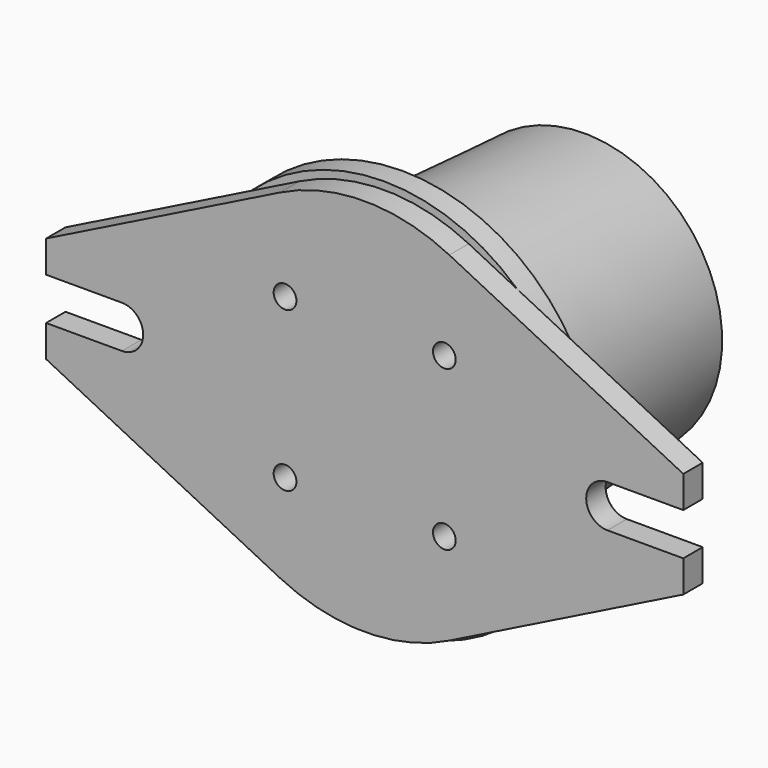
from build123d import *

# Parameters (mm, degrees)
F0_R     = 7.5
F1_DEPTH = 16
F2_R     = 130
F3_DEPTH = 15
F4_R     = 100
F5_DEPTH = 150
F5_TAPER = 3.5


with BuildPart() as f1:
    # F0 (on Front) → F1 (new body)
    with BuildSketch(Plane.XZ):
        with BuildLine():
            Line((-210, -35), (-55.7589884753, -111.8746405769))
            ThreePointArc((-55.7589884753, -111.8746405769), (0, -125), (55.7589884753, -111.8746405769))
            Line((55.7589884753, -111.8746405769), (210, -35))
            Line((210, -35), (210, -14))
            Line((210, -14), (160, -14))
            ThreePointArc((160, -14), (146, 0), (160, 14))
            Line((160, 14), (210, 14))
            Line((210, 14), (210, 35))
            Line((210, 35), (55.7589884753, 111.8746405769))
            ThreePointArc((55.7589884753, 111.8746405769), (0, 125), (-55.7589884753, 111.8746405769))
            Line((-55.7589884753, 111.8746405769), (-210, 35))
            Line((-210, 35), (-210, 14))
            Line((-210, 14), (-160, 14))
            ThreePointArc((-160, 14), (-146, 0), (-160, -14))
            Line((-160, -14), (-210, -14))
            Line((-210, -14), (-210, -35))
        make_face()
        with Locations((-52.5, -52.5)):
            Circle(F0_R, mode=Mode.SUBTRACT)
        with Locations((52.5, -52.5)):
            Circle(F0_R, mode=Mode.SUBTRACT)
        with Locations((-52.5, 52.5)):
            Circle(F0_R, mode=Mode.SUBTRACT)
        with Locations((52.5, 52.5)):
            Circle(F0_R, mode=Mode.SUBTRACT)
    extrude(amount=F1_DEPTH)


with BuildPart() as f3:
    # F2 (on face) → F3 (new body)
    with BuildSketch(Plane(origin=(0, 0, 0), x_dir=(-1, 0, 0), z_dir=(0, 1, 0))):
        Circle(F2_R)
    extrude(amount=F3_DEPTH)

    # F4 (on face) → F5 (join)
    with BuildSketch(Plane(origin=(0, 15, 0), x_dir=(-1, 0, 0), z_dir=(0, 1, 0))):
        Circle(F4_R)
    extrude(amount=F5_DEPTH, taper=F5_TAPER)


solid = Compound([f1.part, f3.part])
